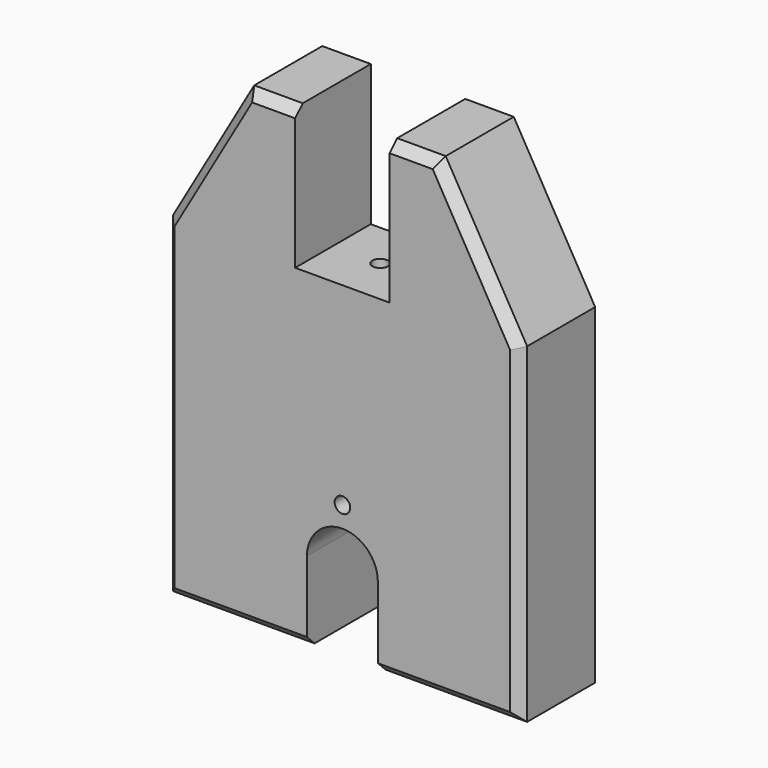
from build123d import *

# Parameters (mm, degrees)
F1_DEPTH = 10
F3_DEPTH = 25
F4_SIZE  = 2
F6_D     = 3.3
F6_DEPTH = 10
F6_TIP   = 0.9914200214
F8_D     = 3.3
F8_DEPTH = 10
F8_TIP   = 0.9914200214


with BuildPart() as f1:
    # F0 (on Front) → F1 (new body, symmetric)
    with BuildSketch(Plane.XZ):
        with BuildLine():
            Line((7.5, -35), (37.5, -35))
            Line((37.5, -35), (37.5, 35))
            Line((37.5, 35), (10, 35))
            Line((10, 35), (-10, 35))
            Line((-10, 35), (-37.5, 35))
            Line((-37.5, 35), (-37.5, -35))
            Line((-37.5, -35), (-7.5, -35))
            Line((-7.5, -35), (-7.5, -17.867))
            ThreePointArc((-7.5, -17.867), (0, -10.367), (7.5, -17.867))
            Line((7.5, -17.867), (7.5, -35))
        make_face()
        with BuildLine():
            Line((-7.5, -35), (7.5, -35))
            Line((7.5, -35), (7.5, -17.867))
            ThreePointArc((7.5, -17.867), (0, -10.367), (-7.5, -17.867))
            Line((-7.5, -17.867), (-7.5, -35))
        make_face()
        Polygon((10, 35), (37.5, 35), (20.2677392039, 64.8471512281), (10, 64.8471512281), align=None)
        Polygon((-37.5, 35), (-10, 35), (-10, 64.8471512281), (-20.2677392039, 64.8471512281), align=None)
    extrude(amount=F1_DEPTH, both=True)

    # F2 (on Front) → F3 (cut, symmetric)
    with BuildSketch(Plane.XZ):
        with BuildLine():
            Line((-7.5, -17.867), (-7.5, -35))
            Line((-7.5, -35), (7.5, -35))
            Line((7.5, -35), (7.5, -17.867))
            ThreePointArc((7.5, -17.867), (0, -10.367), (-7.5, -17.867))
        make_face()
    extrude(amount=F3_DEPTH, both=True, mode=Mode.SUBTRACT)

    # F4
    f4_edges = [f1.edges().sort_by_distance(p)[0] for p in [
        (37.5, -10, 0),
        (28.88387, -10, 49.923576),
        (22.5, -10, -35),
        (-22.5, -10, -35),
        (-37.5, -10, 0),
        (-28.88387, -10, 49.923576),
        (-15.13387, -10, 64.847151),
        (15.13387, -10, 64.847151),
    ]]
    chamfer(f4_edges, length=F4_SIZE)

    # F6
    with Locations(Plane.XZ.offset(10)):
        with Locations((0, -5.952)):
            Hole(F6_D / 2, depth=F6_DEPTH)
            with Locations((0, 0, -(F6_DEPTH + F6_TIP / 2))):  # 118° drill point
                Cone(0, F6_D / 2, F6_TIP, mode=Mode.SUBTRACT)

    # F8
    with Locations(Plane.XY.offset(35)):
        with Locations((0, 0)):
            Hole(F8_D / 2, depth=F8_DEPTH)
            with Locations((0, 0, -(F8_DEPTH + F8_TIP / 2))):  # 118° drill point
                Cone(0, F8_D / 2, F8_TIP, mode=Mode.SUBTRACT)


solid = f1.part
